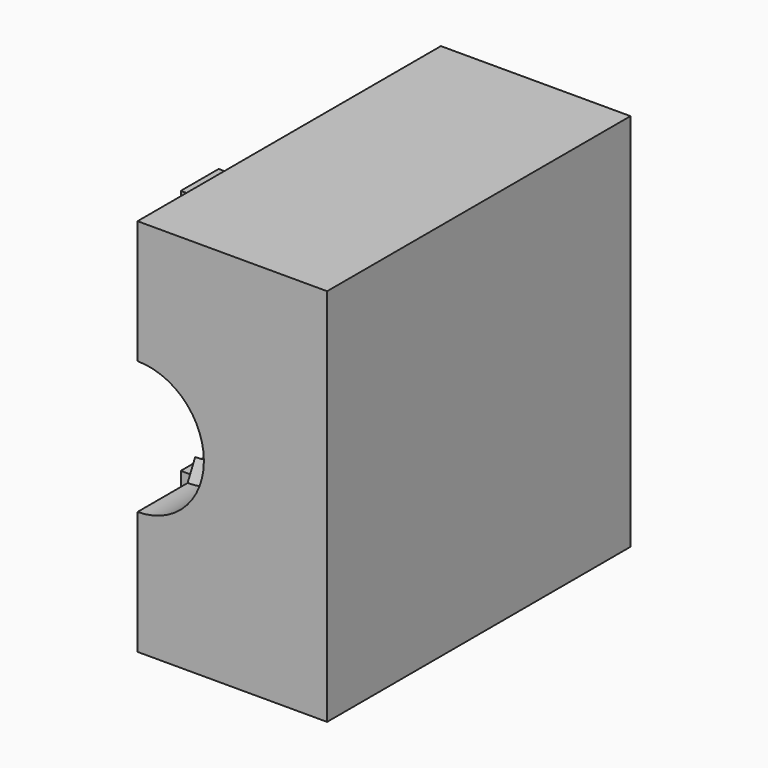
from build123d import *

# Parameters (mm, degrees)
F1_DEPTH  = 10
F3_DEPTH  = 6.7
F5_DEPTH  = 5.7
F8_W      = 2.5
F8_H      = 2.5
F10_DEPTH = 3
F9_W      = 2.5
F9_H      = 2.5
F11_DEPTH = 3
F13_DEPTH = 10
F14_DEPTH = 11


with BuildPart() as f1:
    # F0 (on Front) → F1 (new body)
    with BuildSketch(Plane.XZ):
        with BuildLine():
            ThreePointArc((0, 7), (3.5, 3.5), (0, 0))
            Line((0, 0), (0, -6.5))
            Line((0, -6.5), (10, -6.5))
            Line((10, -6.5), (10, 13.5))
            Line((10, 13.5), (0, 13.5))
            Line((0, 13.5), (0, 7))
        make_face()
    extrude(amount=F1_DEPTH)

    # F2 (on Front) → F3 (join)
    with BuildSketch(Plane.XZ):
        with BuildLine():
            ThreePointArc((0, 6), (2.5, 3.5), (0, 1))
            Line((0, 1), (0, 0))
            ThreePointArc((0, 0), (3.5, 3.5), (0, 7))
            Line((0, 7), (0, 6))
        make_face()
    extrude(amount=F3_DEPTH)

    # F4 (on Front) → F5 (cut)
    with BuildSketch(Plane.XZ):
        with BuildLine():
            Line((0, 1), (0, 0))
            ThreePointArc((0, 0), (3.5, 3.5), (0, 7))
            Line((0, 7), (0, 6))
            ThreePointArc((0, 6), (2.5, 3.5), (0, 1))
        make_face()
    extrude(amount=F5_DEPTH, mode=Mode.SUBTRACT)

    # F6 (on face) → F7 (revolve, cut)
    with BuildSketch(Plane(origin=(0, 0, 0), x_dir=(0, -1, 0), z_dir=(-1, 0, 0))):
        Polygon((6.2, 6), (5.7, 7), (5.7, 6), align=None)
        Polygon((6.7, 7), (6.2, 6), (6.7, 6), align=None)
    revolve(axis=Axis((0, 0, 3.5), (0, 1, 0)), mode=Mode.SUBTRACT)

    # F8 (on face) → F10 (join)
    with BuildSketch(Plane(origin=(0, 0, 0), x_dir=(0, -1, 0), z_dir=(-1, 0, 0))):
        with Locations((2.15, 10)):
            Rectangle(F8_W, F8_H)
    extrude(amount=F10_DEPTH)

    # F9 (on face) → F11 (join)
    with BuildSketch(Plane(origin=(0, 0, 0), x_dir=(0, -1, 0), z_dir=(-1, 0, 0))):
        with Locations((2.15, -3)):
            Rectangle(F9_W, F9_H)
    extrude(amount=F11_DEPTH)

    # F0 (on Front) → F13 (join)
    with BuildSketch(Plane.XZ):
        with BuildLine():
            Line((0, 7), (0, 0))
            ThreePointArc((0, 0), (3.5, 3.5), (0, 7))
        make_face()
        with BuildLine():
            ThreePointArc((0, 7), (3.5, 3.5), (0, 0))
            Line((0, 0), (0, -6.5))
            Line((0, -6.5), (10, -6.5))
            Line((10, -6.5), (10, 13.5))
            Line((10, 13.5), (0, 13.5))
            Line((0, 13.5), (0, 7))
        make_face()
    extrude(amount=-F13_DEPTH)

    # F14 (cut): a face of the model
    f14_faces = [f1.faces().sort_by_distance(p)[0] for p in [
        (1.4854461355, 0, 3.5),
    ]]
    extrude(f14_faces, amount=-F14_DEPTH, mode=Mode.SUBTRACT)


solid = f1.part
